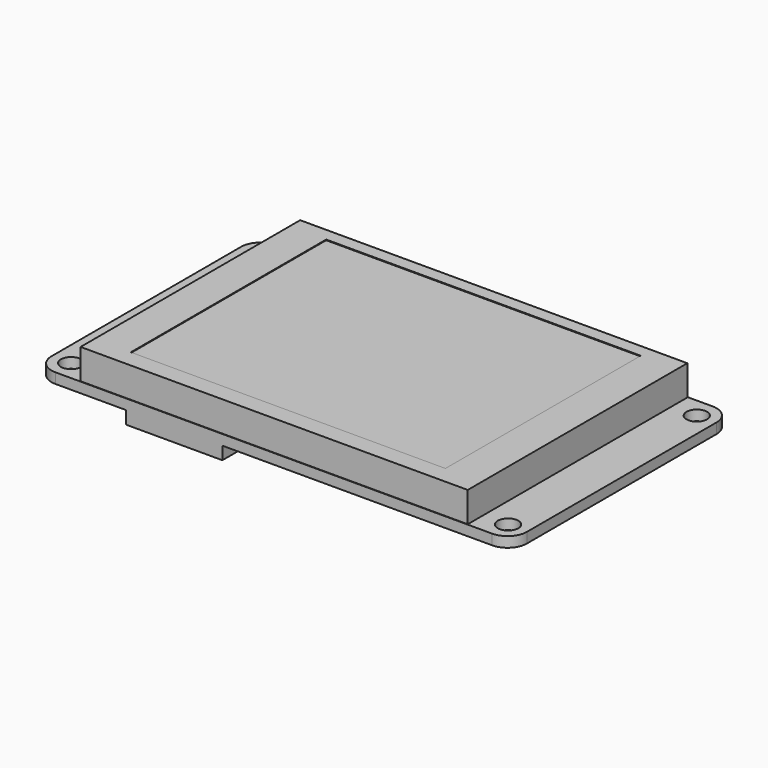
from build123d import *

# Parameters (mm, degrees)
F0_W     = 74
F0_H     = 42.9
F0_R     = 1.6
F1_DEPTH = 1.6
F2_W     = 60.26
F2_H     = 42.72
F3_DEPTH = 4.7
F4_W     = 48.96
F4_H     = 38
F5_DEPTH = 0.1
F6_W     = 15
F6_H     = 15
F7_DEPTH = 2
F6_W_2   = 8
F8_DEPTH = 6
F9_R     = 3


with BuildPart() as f1:
    # F0 (on Top) → F1 (new body)
    with BuildSketch(Plane.XY):
        Rectangle(F0_W, F0_H)
        with Locations((-34, -18.36)):
            Circle(F0_R, mode=Mode.SUBTRACT)
        with Locations((34, -18.36)):
            Circle(F0_R, mode=Mode.SUBTRACT)
        with Locations((-34, 18.36)):
            Circle(F0_R, mode=Mode.SUBTRACT)
        with Locations((34, 18.36)):
            Circle(F0_R, mode=Mode.SUBTRACT)
    extrude(amount=F1_DEPTH)

    # F2 (on face) → F3 (join)
    with BuildSketch(Plane.XY.offset(1.6)):
        with Locations((0, -0.01)):
            Rectangle(F2_W, F2_H)
    extrude(amount=F3_DEPTH)

    # F4 (on face) → F5 (cut)
    with BuildSketch(Plane.XY.offset(6.3)):
        with Locations((0, 0.35)):
            Rectangle(F4_W, F4_H)
    extrude(amount=-F5_DEPTH, mode=Mode.SUBTRACT)

    # F6 (on face) → F7 (join)
    with BuildSketch(Plane(origin=(0, 0, 0), x_dir=(1, 0, 0), z_dir=(0, 0, -1))):
        with Locations((-15.5, 13.95)):
            Rectangle(F6_W, F6_H)
    extrude(amount=F7_DEPTH)

    # F6 (on face) → F8 (join)
    with BuildSketch(Plane(origin=(0, 0, 0), x_dir=(1, 0, 0), z_dir=(0, 0, -1))):
        with Locations((-33, 0)):
            Rectangle(F6_W_2, F6_H)
    extrude(amount=F8_DEPTH)

    # F9
    f9_edges = [f1.edges().sort_by_distance(p)[0] for p in [
        (37, 21.45, 0.8),
        (37, -21.45, 0.8),
        (-37, -21.45, 0.8),
        (-37, 21.45, 0.8),
    ]]
    fillet(f9_edges, radius=F9_R)


solid = f1.part
